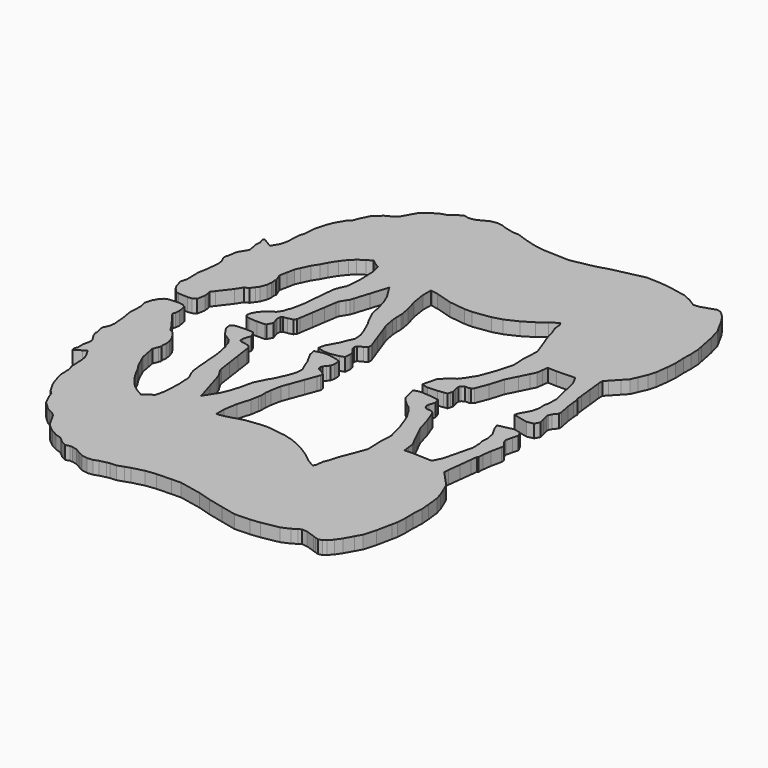
from build123d import *

# Parameters (mm, degrees)
F1_DEPTH = 7.9375


with BuildPart() as f1:
    # F0 (on Top) → F1 (new body)
    with BuildSketch(Plane.XY):
        Polygon((-99.518064, -9.148699), (-100.333099, -4.424274), (-102.462559, -3.193923), (-104.920974, -2.88765), (-110.844025, -3.157677), (-112.99124, -3.994861), (-115.1525, -6.471793), (-116.420341, -8.742477), (-117.227579, -11.373612), (-117.738474, -13.038785), (-117.257246, -14.831365), (-116.721255, -16.827906), (-116.836292, -19.947001), (-116.972817, -23.648391), (-117.033802, -25.302007), (-116.042237, -31.20197), (-115.619886, -36.018267), (-115.363752, -38.939038), (-115.779144, -41.733241), (-116.615337, -43.579847), (-117.285948, -45.060794), (-117.461005, -46.474939), (-117.042209, -47.548013), (-116.599056, -49.940337), (-116.402891, -50.999339), (-116.579904, -51.865555), (-115.532891, -54.548253), (-114.26317, -56.606262), (-113.023345, -58.615809), (-112.866856, -60.14753), (-113.349456, -62.353673), (-113.879554, -64.776909), (-113.778767, -66.66357), (-113.697588, -68.182922), (-114.196952, -69.679541), (-114.621894, -70.953198), (-114.146406, -72.104148), (-110.059546, -69.679388), (-107.944107, -68.424273), (-106.960111, -70.098107), (-105.599789, -72.412098), (-104.717926, -74.823066), (-104.311374, -77.32202), (-104.068245, -82.243727), (-103.894179, -85.767393), (-102.945641, -88.796774), (-102.766825, -92.898011), (-102.660552, -95.335065), (-100.950039, -101.813639), (-99.344023, -105.855795), (-97.481619, -109.11586), (-96.184466, -111.386518), (-94.801385, -112.668152), (-94.083556, -113.333352), (-93.009771, -116.372157), (-91.362886, -119.808625), (-90.205941, -122.222793), (-88.119052, -124.18568), (-85.578086, -126.575668), (-83.792136, -127.553364), (-81.338141, -128.896745), (-79.288437, -130.586556), (-77.707998, -133.452057), (-74.918392, -138.509883), (-72.877604, -140.531799), (-69.856731, -142.920669), (-65.774875, -145.237251), (-62.250244, -146.30433), (-60.550577, -147.744891), (-58.839252, -149.195307), (-57.17606, -150.057968), (-55.691253, -150.828096), (-53.431897, -150.161371), (-51.851763, -150.175976), (-48.968457, -150.842396), (-45.808671, -152.545034), (-42.852467, -154.13797), (-39.151027, -154.816454), (-35.866832, -154.488134), (-33.075829, -153.442568), (-29.095243, -152.513233), (-27.302231, -152.094616), (-23.561751, -151.919), (-19.877608, -150.702874), (-16.621252, -149.627946), (-9.497797, -147.761427), (-3.27058, -147.030034), (5.755284, -146.7866), (11.31763, -146.636588), (24.694185, -149.376867), (32.627494, -151.76213), (42.251579, -153.988491), (51.388924, -156.102228), (60.518167, -155.823945), (66.444597, -155.161793), (76.891871, -153.182574), (81.665801, -151.080546), (84.534248, -149.322663), (86.290683, -148.246287), (89.640994, -148.582177), (94.869, -150.338206), (96.68477, -150.948085), (98.405798, -151.526164), (100.686718, -150.959998), (102.517829, -149.549739), (104.894609, -146.896404), (107.221807, -143.514775), (110.192464, -138.157179), (112.299598, -134.356983), (114.390551, -127.056642), (116.364969, -117.54137), (117.025979, -114.355728), (117.408858, -108.265087), (117.276702, -102.880897), (117.619983, -96.410043), (117.202814, -90.987753), (116.316201, -83.374586), (115.009066, -78.829052), (112.895532, -73.82891), (111.282912, -70.013779), (108.357949, -66.848177), (104.263927, -62.41735), (102.272846, -60.26244), (102.391185, -57.276822), (103.307312, -49.540439), (104.15176, -42.409085), (104.63591, -38.32065), (105.250615, -37.8047), (105.419271, -34.626144), (106.101286, -29.526433), (107.428081, -23.213111), (107.409691, -21.234273), (105.378504, -18.694603), (104.579445, -17.062399), (104.441142, -15.919374), (105.356355, -12.252554), (106.239691, -8.713521), (104.77434, -5.922848), (100.68118, -5.039741), (91.720467, -7.012229), (92.546094, -9.669323), (93.729759, -11.799494), (95.654114, -15.262606), (96.019417, -16.871823), (96.63242, -19.572097), (96.418806, -24.026393), (96.932369, -25.974142), (97.078216, -29.579418), (97.176209, -32.002044), (95.00075, -40.812999), (92.814902, -49.666017), (90.211529, -54.755618), (79.071343, -54.304336), (73.519513, -54.504057), (73.090583, -50.931699), (72.666784, -47.402013), (71.024013, -44.052058), (68.379924, -38.660146), (65.195221, -32.165849), (62.674449, -23.641279), (59.871026, -16.252774), (58.714538, -15.076856), (57.650278, -14.741881), (55.141165, -14.649704), (53.735097, -13.718972), (53.037537, -12.617653), (53.19649, -10.569677), (54.251911, -7.045376), (53.839542, -5.663819), (53.314219, -3.903777), (51.262153, -3.610305), (47.884004, -3.127197), (41.937153, -2.717673), (38.040031, -3.708908), (38.790728, -6.860032), (39.350391, -9.209303), (40.013484, -11.992712), (41.507943, -13.828573), (45.401611, -17.359986), (47.265387, -18.506643), (49.921871, -22.027439), (53.171242, -27.399742), (54.863619, -32.042964), (56.54388, -36.652911), (58.102551, -42.480738), (59.206511, -46.608416), (58.751445, -53.558008), (58.926095, -57.950202), (59.057362, -61.251846), (59.177682, -64.278027), (57.779768, -68.022724), (56.563539, -71.280757), (53.250236, -79.797605), (52.085875, -84.288681), (50.557049, -88.052478), (50.111609, -92.255772), (49.124489, -93.930089), (44.323152, -91.00947), (39.41826, -87.078287), (33.240751, -83.210984), (25.740639, -79.621913), (19.843826, -77.92593), (9.366606, -76.373253), (4.727321, -76.37084), (-4.986604, -77.485215), (-14.972411, -80.356837), (-18.718962, -80.960417), (-19.659549, -81.111954), (-19.678371, -75.043741), (-18.334711, -66.853054), (-16.061817, -59.345398), (-15.194966, -54.440023), (-14.928571, -52.932533), (-14.966239, -49.460861), (-14.598752, -45.874076), (-13.423849, -39.777949), (-11.853443, -35.528377), (-8.918956, -27.5876), (-6.506718, -21.059978), (-5.765673, -19.054674), (-5.933313, -17.292041), (-7.941335, -15.853816), (-10.623067, -14.44719), (-11.171707, -12.984074), (-10.859592, -11.490935), (-9.53577, -9.819513), (-8.360562, -8.335696), (-7.817129, -5.862498), (-8.049082, -2.372055), (-10.771759, -1.376426), (-15.897581, -0.357251), (-19.714464, -0.436702), (-23.877346, -1.597635), (-23.161193, -5.343296), (-20.877632, -9.551162), (-19.347688, -12.370359), (-18.344718, -15.219553), (-16.250488, -19.925462), (-16.664102, -24.491417), (-18.121325, -28.629788), (-21.403259, -35.833609), (-22.919919, -38.176479), (-24.523167, -41.425114), (-26.30137, -45.028307), (-28.064866, -52.70693), (-29.83451, -58.375829), (-31.747739, -62.864086), (-36.905565, -70.971994), (-40.154555, -60.284182), (-42.803089, -51.57155), (-43.409006, -49.578362), (-44.575451, -47.675673), (-46.402955, -44.694678), (-46.782761, -43.007178), (-47.842246, -35.668636), (-48.967111, -27.877084), (-50.087124, -20.119061), (-50.38852, -18.031435), (-51.536625, -16.724122), (-54.37345, -15.951886), (-56.961049, -15.663621), (-57.926376, -14.795246), (-58.057085, -12.587808), (-56.595569, -8.025587), (-58.28858, -4.757699), (-59.109051, -4.451502), (-63.732258, -4.253865), (-68.560848, -4.511599), (-70.548754, -5.092878), (-71.68007, -6.130239), (-71.107478, -9.164168), (-69.707023, -11.644274), (-67.264839, -14.806422), (-64.88369, -16.360038), (-62.629186, -17.831029), (-60.878263, -20.47047), (-60.042069, -23.787379), (-59.485073, -24.278285), (-58.982483, -26.750696), (-57.919036, -31.982258), (-57.023864, -42.83009), (-56.55056, -48.565664), (-56.02572, -53.060676), (-55.186326, -55.617161), (-53.642666, -58.84639), (-53.135428, -60.879634), (-52.711579, -68.297958), (-53.030882, -75.036578), (-53.190877, -78.413458), (-54.682644, -84.268031), (-55.883327, -84.669071), (-58.819999, -86.812831), (-60.125483, -87.765814), (-63.377394, -85.988423), (-67.096056, -83.338873), (-69.730417, -80.773397), (-72.801861, -76.820547), (-75.533402, -72.49668), (-77.446378, -68.703342), (-79.886581, -64.934668), (-82.237707, -59.749919), (-83.460666, -57.053023), (-84.383093, -52.199718), (-85.227897, -47.754718), (-83.978775, -44.493383), (-83.455815, -43.128006), (-83.731532, -41.840429), (-83.414311, -39.697533), (-83.760843, -36.478591), (-85.077173, -32.914742), (-86.377272, -31.060517), (-88.064543, -28.654045), (-90.461694, -27.435531), (-92.937813, -23.51659), (-98.529013, -16.052394), (-100.372926, -13.590778), (-99.764088, -11.741328), align=None)
        Polygon((-102.841527, 4.519092), (-100.701577, 5.731129), (-99.846079, 10.448392), (-100.069853, 13.043052), (-100.662791, 14.897633), (-98.797821, 17.343349), (-93.142816, 24.75931), (-90.633169, 28.65689), (-88.225681, 29.854779), (-86.51781, 32.246697), (-85.201862, 34.089696), (-83.855027, 37.642114), (-83.48091, 40.857983), (-83.779716, 43.003521), (-83.492975, 44.288685), (-84.004201, 45.658481), (-85.225306, 48.930408), (-84.342402, 53.368016), (-83.378396, 58.213219), (-82.132348, 60.899548), (-79.736848, 66.063927), (-77.264387, 69.811544), (-75.31895, 73.588321), (-72.550426, 77.888617), (-69.4452, 81.814975), (-66.788919, 84.357743), (-63.047702, 86.975315), (-59.780653, 88.72474), (-58.483373, 87.760607), (-55.565218, 85.591752), (-54.368014, 85.180424), (-52.926513, 79.313253), (-52.795475, 75.935129), (-52.534007, 69.19402), (-53.021459, 61.779607), (-53.546096, 59.750782), (-55.117416, 56.534914), (-55.978704, 53.985744), (-56.542051, 49.49538), (-57.064529, 43.764073), (-58.052716, 32.924318), (-59.16102, 27.702053), (-59.684793, 25.234062), (-60.245981, 24.747957), (-61.110571, 21.438337), (-62.884075, 18.814009), (-65.151102, 17.362424), (-67.545483, 15.82928), (-70.014719, 12.688189), (-71.436382, 10.220198), (-72.034984, 7.191299), (-70.912609, 6.14426), (-68.929758, 5.545963), (-64.103555, 5.246802), (-59.478824, 5.404764), (-58.655763, 5.703926), (-56.934786, 8.957183), (-58.35711, 13.531774), (-58.207478, 15.738018), (-57.234734, 16.598087), (-54.644773, 16.864127), (-51.80142, 17.612004), (-50.642139, 18.909411), (-50.322861, 20.99437), (-49.136325, 28.742513), (-47.944684, 36.524133), (-46.822309, 43.853329), (-46.428025, 45.537501), (-44.575044, 48.502697), (-43.392319, 50.395327), (-42.769333, 52.383258), (-40.046148, 61.072827), (-36.705616, 71.732394), (-31.617539, 63.580543), (-29.742867, 59.076057), (-28.021915, 53.392197), (-26.324331, 45.698715), (-24.577091, 42.080409), (-23.001783, 38.81816), (-21.505266, 36.462335), (-18.285231, 29.23065), (-16.863568, 25.079909), (-16.489121, 20.510576), (-18.623636, 15.822828), (-19.650989, 12.982346), (-21.205088, 10.176358), (-23.524642, 5.988228), (-24.2729, 2.248865), (-20.120127, 1.052246), (-16.304057, 0.940079), (-11.169675, 1.915236), (-8.438566, 2.887472), (-8.176692, 6.375806), (-8.69889, 8.853576), (-9.861321, 10.347401), (-11.170768, 12.030126), (-11.470056, 13.525881), (-10.908868, 14.984247), (-8.215198, 16.367811), (-6.194908, 17.788788), (-6.012155, 19.549897), (-6.735978, 21.561501), (-9.092159, 28.10957), (-11.958396, 36.075214), (-13.492302, 40.338096), (-14.614906, 46.444078), (-14.951608, 50.033885), (-14.884146, 53.5051), (-15.137613, 55.014825), (-15.962351, 59.927465), (-18.170779, 67.454348), (-19.444157, 75.656237), (-19.373266, 81.724068), (-18.434025, 81.56448), (-14.692782, 80.928769), (-4.731995, 77.971625), (4.972025, 76.773964), (9.611157, 76.736575), (20.101306, 78.199361), (26.01247, 79.844697), (33.543088, 83.369328), (39.75354, 87.183493), (44.69196, 91.072462), (49.518164, 93.951781), (50.490882, 92.269056), (50.900279, 88.06213), (52.396771, 84.285328), (53.52255, 79.784448), (56.762675, 71.239482), (57.950938, 67.971137), (59.316671, 64.214578), (59.170392, 61.189565), (59.010804, 57.889165), (58.798511, 53.498623), (59.193963, 46.545398), (58.054621, 42.427347), (56.446039, 36.613084), (54.726307, 32.017716), (52.994154, 27.389176), (49.698834, 22.044939), (47.01225, 18.547055), (45.138721, 17.416424), (41.214904, 13.91854), (39.704747, 12.095582), (39.017804, 9.317939), (38.438023, 6.97357), (37.660326, 3.828999), (41.548787, 2.804363), (47.49894, 3.162884), (50.881128, 3.617011), (52.935607, 3.892855), (53.476017, 5.648325), (53.900197, 7.026275), (52.875078, 10.559517), (52.733677, 12.608763), (53.44066, 13.704087), (54.854653, 14.622704), (57.364478, 14.693367), (58.431557, 15.019198), (59.598103, 16.185159), (62.464798, 23.549356), (65.058569, 32.051981), (68.298847, 38.518744), (70.989114, 43.887771), (72.660535, 47.223502), (73.114611, 50.749429), (73.574148, 54.317976), (79.124048, 54.070656), (90.267714, 54.426358), (92.827323, 49.314633), (94.937174, 40.443175), (97.036992, 31.613881), (96.918221, 29.192195), (96.741463, 25.588316), (96.211212, 23.645038), (96.386599, 19.189065), (95.750456, 16.49415), (95.371361, 14.888134), (93.41739, 11.441633), (92.215487, 9.321724), (91.367102, 6.671793), (100.310569, 4.622521), (104.411145, 5.4705), (105.900372, 8.248498), (105.04744, 11.794973), (104.163698, 15.469514), (104.311806, 16.611295), (105.12486, 18.23659), (107.177738, 20.758734), (107.213095, 22.737343), (105.940504, 29.061816), (105.302253, 34.167191), (105.160851, 37.347093), (104.550591, 37.868301), (104.101544, 41.960724), (103.318285, 49.099038), (102.468553, 56.843016), (102.375792, 59.829548), (104.385313, 61.967288), (108.517157, 66.362834), (111.469195, 69.503239), (113.11448, 73.3044), (115.270813, 78.286229), (116.616861, 82.820408), (117.568777, 90.425676), (118.032428, 95.844182), (117.744646, 102.317728), (117.92298, 107.700597), (117.592348, 113.794286), (116.958694, 116.985491), (115.065962, 126.517349), (113.037671, 133.835343), (110.963227, 137.653497), (108.038621, 143.036366), (105.74053, 146.437833), (103.386585, 149.111437), (101.567615, 150.537367), (99.291648, 151.123066), (97.565743, 150.55977), (95.744817, 149.965486), (90.501927, 148.254364), (87.148848, 147.947228), (85.401734, 149.03864), (82.548451, 150.821034), (77.792732, 152.963931), (67.362807, 155.032685), (61.44227, 155.745663), (52.31577, 156.102228), (43.160645, 154.066926), (33.517789, 151.923191), (25.564313, 149.606076), (12.164771, 146.980605), (6.603898, 147.178319), (-2.419553, 147.499146), (-8.640242, 148.28393), (-15.747441, 150.211485), (-18.99445, 151.314302), (-22.668027, 152.561976), (-26.406881, 152.769672), (-28.196235, 153.203656), (-32.168719, 154.167103), (-34.950629, 155.236545), (-38.231902, 155.593034), (-41.939007, 154.946325), (-44.908775, 153.378789), (-48.083038, 151.703329), (-50.971958, 151.061674), (-52.552168, 151.060607), (-54.805732, 151.746687), (-56.297068, 150.989309), (-57.967601, 150.140975), (-59.691295, 148.705265), (-61.403255, 147.279335), (-64.936929, 146.242532), (-69.038495, 143.961053), (-72.079739, 141.598167), (-74.137799, 139.593828), (-76.970661, 134.560107), (-78.575637, 131.708271), (-80.639768, 130.036087), (-83.105193, 128.713814), (-84.899475, 127.751484), (-87.460836, 125.383392), (-89.564464, 123.438463), (-90.742084, 121.034302), (-92.418383, 117.612084), (-93.518177, 114.5826), (-94.241696, 113.923572), (-95.635724, 112.653851), (-96.952308, 110.39442), (-98.842601, 107.150433), (-100.483213, 103.122197), (-102.249224, 96.658532), (-102.376402, 94.222468), (-102.590397, 90.122934), (-103.564868, 87.101782), (-103.76916, 83.579741), (-104.054478, 78.66032), (-104.482468, 76.164948), (-105.384956, 73.761625), (-106.76509, 71.459369), (-107.763412, 69.794044), (-109.868005, 71.067244), (-113.93391, 73.52698), (-114.419253, 72.38017), (-114.005233, 71.102906), (-113.518747, 69.602045), (-113.612955, 68.083455), (-113.729897, 66.197734), (-113.220627, 63.770027), (-112.75695, 61.559846), (-112.926571, 60.029496), (-114.183592, 58.030669), (-115.470915, 55.983632), (-116.54089, 53.310003), (-116.371319, 52.442313), (-116.576577, 51.385013), (-117.040228, 48.996575), (-117.468218, 47.927133), (-117.305277, 46.511566), (-116.647392, 45.024904), (-115.827073, 43.171186), (-115.435659, 40.373554), (-115.716837, 37.455069), (-116.180489, 32.642581), (-117.222626, 26.751331), (-117.175813, 25.097257), (-117.071038, 21.394826), (-116.982748, 18.274868), (-117.535833, 16.282975), (-118.032428, 14.494612), (-117.535833, 12.82512), (-116.751202, 10.187153), (-115.502893, 7.905674), (-113.362943, 5.410302), (-111.222993, 4.554728), (-105.302482, 4.233901), align=None)
    extrude(amount=F1_DEPTH)


solid = f1.part
